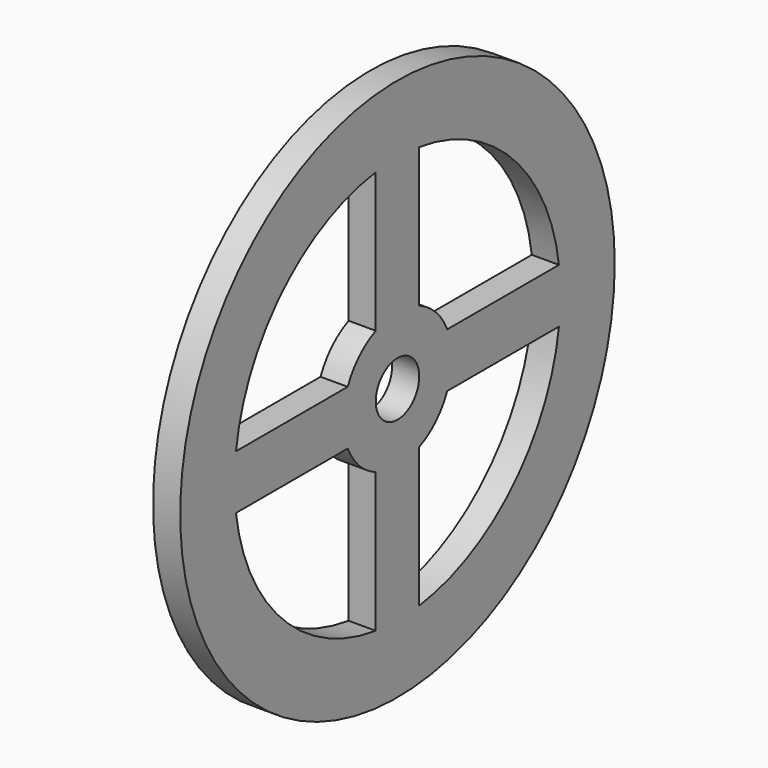
from build123d import *

# Parameters (mm, degrees)
F0_R     = 50
F0_R_2   = 5
F1_DEPTH = 5


with BuildPart() as f1:
    # F0 (on Right) → F1 (new body)
    with BuildSketch(Plane.YZ):
        Circle(F0_R)
        with BuildLine():
            ThreePointArc((-5, -37.165172), (-26.516504, -26.516504), (-37.165172, -5))
            Line((-37.165172, -5), (-11.456439, -5))
            ThreePointArc((-11.456439, -5), (-8.838835, -8.838835), (-5, -11.456439))
            Line((-5, -11.456439), (-5, -37.165172))
        make_face(mode=Mode.SUBTRACT)
        with BuildLine():
            ThreePointArc((37.165172, -5), (26.516504, -26.516504), (5, -37.165172))
            Line((5, -37.165172), (5, -11.456439))
            ThreePointArc((5, -11.456439), (8.838835, -8.838835), (11.456439, -5))
            Line((11.456439, -5), (37.165172, -5))
        make_face(mode=Mode.SUBTRACT)
        with BuildLine():
            Line((-5, 37.165172), (-5, 11.456439))
            ThreePointArc((-5, 11.456439), (-8.838835, 8.838835), (-11.456439, 5))
            Line((-11.456439, 5), (-37.165172, 5))
            ThreePointArc((-37.165172, 5), (-26.516504, 26.516504), (-5, 37.165172))
        make_face(mode=Mode.SUBTRACT)
        Circle(F0_R_2, mode=Mode.SUBTRACT)
        with BuildLine():
            Line((5, 11.456439), (5, 37.165172))
            ThreePointArc((5, 37.165172), (26.516504, 26.516504), (37.165172, 5))
            Line((37.165172, 5), (11.456439, 5))
            ThreePointArc((11.456439, 5), (8.838835, 8.838835), (5, 11.456439))
        make_face(mode=Mode.SUBTRACT)
    extrude(amount=F1_DEPTH)


solid = f1.part
